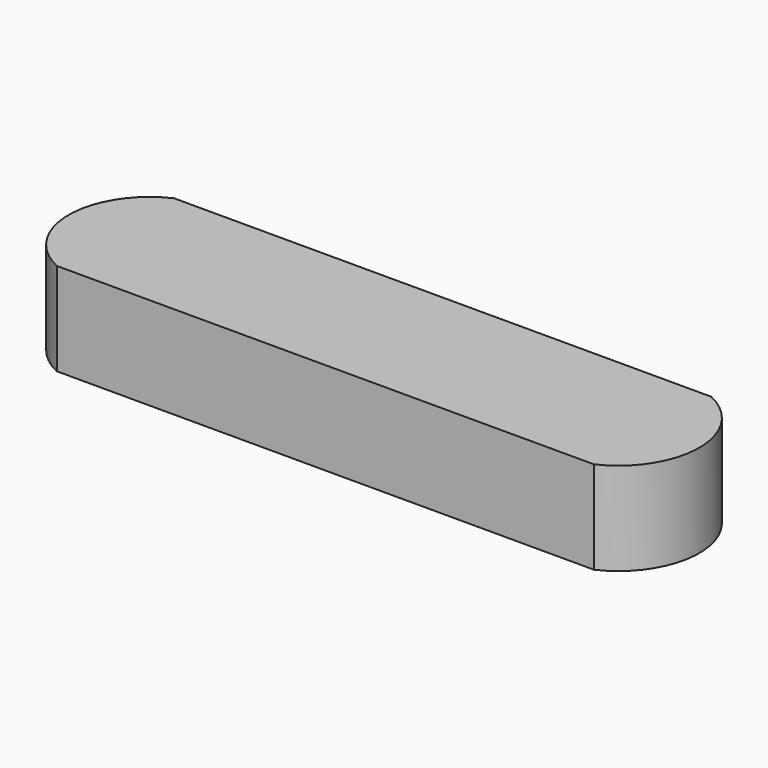
from build123d import *

# Parameters (mm, degrees)
F0_W     = 5.5
F0_H     = 1.5
F1_DEPTH = 0.95


with BuildPart() as f1:
    # F0 (on Top) → F1 (new body)
    with BuildSketch(Plane.XY):
        Rectangle(F0_W, F0_H)
        with BuildLine():
            Line((2.75, 0.75), (2.75, -0.75))
            ThreePointArc((2.75, -0.75), (3.227647, 0), (2.75, 0.75))
        make_face()
        with BuildLine():
            ThreePointArc((-2.75, 0.75), (-3.227647, 0), (-2.75, -0.75))
            Line((-2.75, -0.75), (-2.75, 0.75))
        make_face()
    extrude(amount=F1_DEPTH)


solid = f1.part
